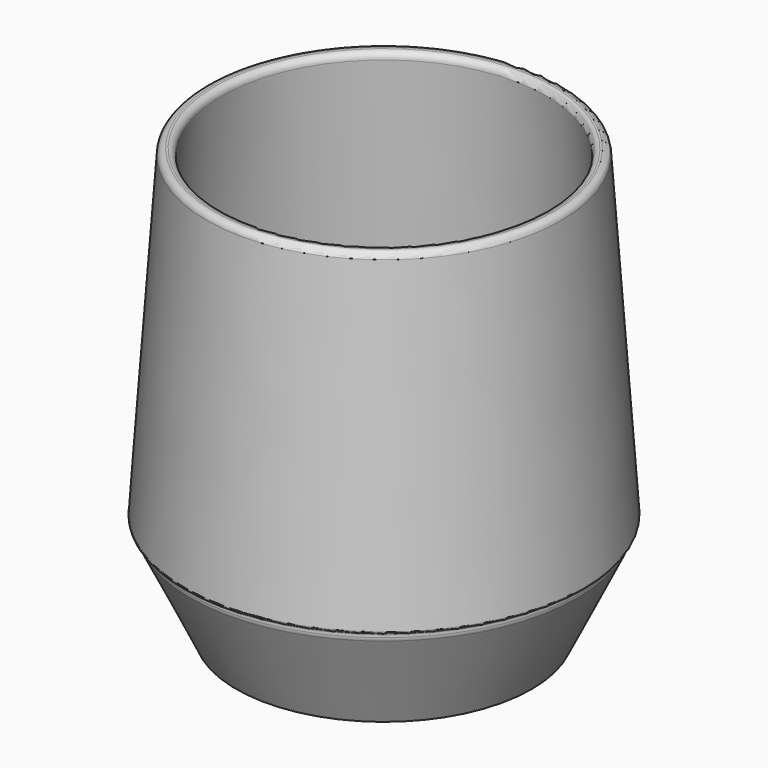
from build123d import *


with BuildPart() as f1:
    # F0 (on Front) → F1 (revolve)
    with BuildSketch(Plane.XZ):
        with BuildLine():
            Line((0, 9), (0, 6))
            Line((0, 6), (22.990978, 6))
            ThreePointArc((22.990978, 6), (23.849303, 5.756168), (24.451248, 5.097503))
            Line((24.451248, 5.097503), (27, 0))
            Line((27, 0), (30, 0))
            Line((30, 0), (39.336887, 19.288663))
            ThreePointArc((39.336887, 19.288663), (39.458699, 19.635101), (39.5, 20))
            Line((39.5, 20), (39.5, 20.5))
            ThreePointArc((39.5, 20.5), (39.646447, 20.853553), (40, 21))
            Line((40, 21), (40.001218, 21))
            ThreePointArc((40.001218, 21), (40.366895, 21.159001), (40.5, 21.534878))
            Line((40.5, 21.534878), (36.012916, 85.703167))
            ThreePointArc((36.012916, 85.703167), (35.56896, 86.593606), (34.625399, 86.909317))
            Line((34.625399, 86.909317), (34.226374, 86.881414))
            ThreePointArc((34.226374, 86.881414), (33.335935, 86.437457), (33.020224, 85.493897))
            Line((33.020224, 85.493897), (37.411664, 22.693382))
            ThreePointArc((37.411664, 22.693382), (37.386106, 22.270355), (37.252528, 21.868158))
            Line((37.252528, 21.868158), (31.469519, 9.921295))
            ThreePointArc((31.469519, 9.921295), (30.867218, 9.249368), (30, 9))
            Line((30, 9), (0, 9))
        make_face()
    revolve(axis=Axis((0, 0, 42.851583), (0, 0, 1)))


solid = f1.part
